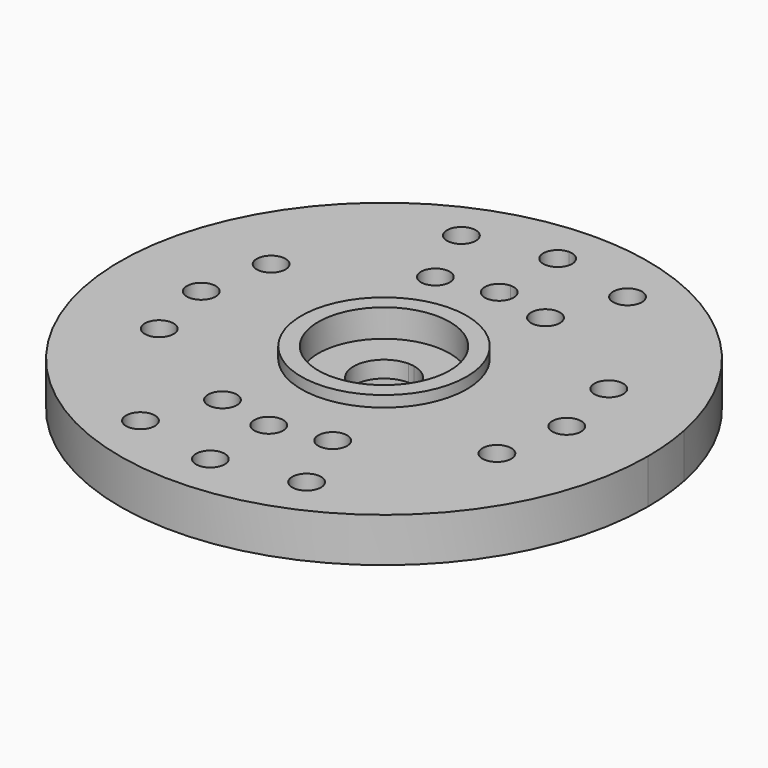
from build123d import *

# Parameters (mm, degrees)
F0_R     = 16.51
F1_DEPTH = 50.8
F2_R     = 94.742
F2_R_2   = 75.438
F3_DEPTH = 12.7
F4_R     = 75.438
F5_DEPTH = 31.75
F6_R     = 112.776
F6_R_2   = 69.85
F7_DEPTH = 63.5
F8_R     = 69.85
F9_DEPTH = 76.2


with BuildPart() as f1:
    # F0 (on Top) → F1 (new body)
    with BuildSketch(Plane.XY):
        with BuildLine():
            Line((226.06, 0), (302.641, 0))
            ThreePointArc((302.641, 0), (301.183701, 29.664005), (296.825838, 59.04233))
            Line((296.825838, 59.04233), (34.253926, 6.813529))
            ThreePointArc((34.253926, 6.813529), (34.756827, 3.423249), (34.925, 0))
            Line((34.925, 0), (193.04, 0))
            ThreePointArc((193.04, 0), (209.55, 16.51), (226.06, 0))
        make_face()
        with BuildLine():
            ThreePointArc((0, 302.641), (-213.999503, -213.999503), (302.641, 0))
            Line((302.641, 0), (226.06, 0))
            ThreePointArc((226.06, 0), (209.55, -16.51), (193.04, 0))
            Line((193.04, 0), (34.925, 0))
            ThreePointArc((34.925, 0), (-24.695704, -24.695704), (0, 34.925))
            Line((0, 34.925), (0, 148.59))
            ThreePointArc((0, 148.59), (-16.51, 165.1), (0, 181.61))
            Line((0, 181.61), (0, 232.41))
            ThreePointArc((0, 232.41), (-16.51, 248.92), (0, 265.43))
            Line((0, 265.43), (0, 302.641))
        make_face()
        with Locations((-95.25756, -229.972093)):
            Circle(F0_R, mode=Mode.SUBTRACT)
        with Locations((-63.181035, -152.532511)):
            Circle(F0_R, mode=Mode.SUBTRACT)
        with Locations((-193.598956, -80.191313)):
            Circle(F0_R, mode=Mode.SUBTRACT)
        with Locations((0, -248.92)):
            Circle(F0_R, mode=Mode.SUBTRACT)
        with Locations((95.25756, -229.972093)):
            Circle(F0_R, mode=Mode.SUBTRACT)
        with Locations((0, -165.1)):
            Circle(F0_R, mode=Mode.SUBTRACT)
        with Locations((63.181035, -152.532511)):
            Circle(F0_R, mode=Mode.SUBTRACT)
        with Locations((193.598956, -80.191313)):
            Circle(F0_R, mode=Mode.SUBTRACT)
        with Locations((-209.55, 0)):
            Circle(F0_R, mode=Mode.SUBTRACT)
        with Locations((-193.598956, 80.191313)):
            Circle(F0_R, mode=Mode.SUBTRACT)
        with Locations((-63.181035, 152.532511)):
            Circle(F0_R, mode=Mode.SUBTRACT)
        with Locations((-95.25756, 229.972093)):
            Circle(F0_R, mode=Mode.SUBTRACT)
        with BuildLine():
            Line((34.253926, 6.813529), (296.825838, 59.04233))
            ThreePointArc((296.825838, 59.04233), (213.999503, 213.999503), (59.04233, 296.825838))
            Line((59.04233, 296.825838), (6.813529, 34.253926))
            ThreePointArc((6.813529, 34.253926), (24.695704, 24.695704), (34.253926, 6.813529))
        make_face()
        with Locations((193.598956, 80.191313)):
            Circle(F0_R, mode=Mode.SUBTRACT)
        with Locations((63.181035, 152.532511)):
            Circle(F0_R, mode=Mode.SUBTRACT)
        with Locations((95.25756, 229.972093)):
            Circle(F0_R, mode=Mode.SUBTRACT)
        with BuildLine():
            ThreePointArc((59.04233, 296.825838), (29.664005, 301.183701), (0, 302.641))
            Line((0, 302.641), (0, 265.43))
            ThreePointArc((0, 265.43), (11.674333, 260.594333), (16.51, 248.92))
            ThreePointArc((16.51, 248.92), (11.674333, 237.245667), (0, 232.41))
            Line((0, 232.41), (0, 181.61))
            ThreePointArc((0, 181.61), (11.674333, 176.774333), (16.51, 165.1))
            ThreePointArc((16.51, 165.1), (11.674333, 153.425667), (0, 148.59))
            Line((0, 148.59), (0, 34.925))
            ThreePointArc((0, 34.925), (3.423249, 34.756827), (6.813529, 34.253926))
            Line((6.813529, 34.253926), (59.04233, 296.825838))
        make_face()
    extrude(amount=F1_DEPTH)

    # F2 (on face) → F3 (join)
    with BuildSketch(Plane.XY.offset(50.8)):
        Circle(F2_R)
        Circle(F2_R_2, mode=Mode.SUBTRACT)
    extrude(amount=F3_DEPTH)

    # F4 (on face) → F5 (cut, symmetric)
    with BuildSketch(Plane.XY.offset(63.5)):
        Circle(F4_R)
    extrude(amount=F5_DEPTH, both=True, mode=Mode.SUBTRACT)

    # F6 (on face) → F7 (join)
    with BuildSketch(Plane(origin=(0, 0, 0), x_dir=(1, 0, 0), z_dir=(0, 0, -1))):
        Circle(F6_R)
        Circle(F6_R_2, mode=Mode.SUBTRACT)
    extrude(amount=F7_DEPTH)

    # F8 (on face) → F9 (cut)
    with BuildSketch(Plane(origin=(0, 0, -63.5), x_dir=(1, 0, 0), z_dir=(0, 0, -1))):
        Circle(F8_R)
    extrude(amount=-F9_DEPTH, mode=Mode.SUBTRACT)


solid = f1.part
